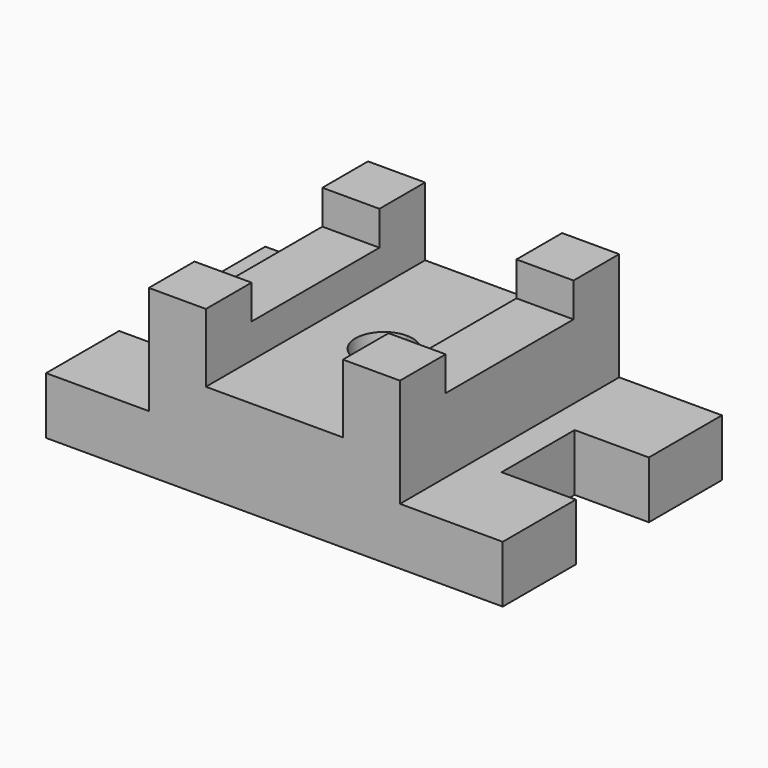
from build123d import *

# Parameters (mm, degrees)
F1_DEPTH = 31.75
F0_W     = 31.75
F0_H     = 31.75
F2_DEPTH = 92.075
F3_DEPTH = 53.975
F0_H_2   = 88.9
F4_DEPTH = 73.025
F5_DEPTH = 31.75


with BuildPart() as f1:
    # F0 (on Top) → F1 (new body)
    with BuildSketch(Plane.XY):
        Polygon((-69.85, 44.45), (-69.85, 76.2), (-127, 76.2), (-127, 25.4), (-85.725, 25.4), (-85.725, 0), (-85.725, -25.4), (-127, -25.4), (-127, -76.2), (-69.85, -76.2), (-69.85, -44.45), align=None)
        Polygon((127, 76.2), (69.85, 76.2), (69.85, 44.45), (69.85, -44.45), (69.85, -76.2), (127, -76.2), (127, -25.4), (85.725, -25.4), (85.725, 0), (85.725, 25.4), (127, 25.4), align=None)
    extrude(amount=F1_DEPTH)

    # F0 (on Top) → F2 (join)
    with BuildSketch(Plane.XY):
        with Locations((-53.975, 60.325)):
            Rectangle(F0_W, F0_H)
        with Locations((-53.975, -60.325)):
            Rectangle(F0_W, F0_H)
        with Locations((53.975, 60.325)):
            Rectangle(F0_W, F0_H)
        with Locations((53.975, -60.325)):
            Rectangle(F0_W, F0_H)
    extrude(amount=F2_DEPTH)

    # F0 (on Top) → F3 (join)
    with BuildSketch(Plane.XY):
        with BuildLine():
            ThreePointArc((0, 15.875), (11.22532, 11.22532), (15.875, 0))
            ThreePointArc((15.875, 0), (11.22532, -11.22532), (0, -15.875))
            Line((0, -15.875), (0, -76.2))
            Line((0, -76.2), (38.1, -76.2))
            Line((38.1, -76.2), (38.1, -44.45))
            Line((38.1, -44.45), (38.1, 44.45))
            Line((38.1, 44.45), (38.1, 76.2))
            Line((38.1, 76.2), (0, 76.2))
            Line((0, 76.2), (0, 15.875))
        make_face()
        with BuildLine():
            ThreePointArc((0, -15.875), (-15.875, 0), (0, 15.875))
            Line((0, 15.875), (0, 76.2))
            Line((0, 76.2), (-38.1, 76.2))
            Line((-38.1, 76.2), (-38.1, 44.45))
            Line((-38.1, 44.45), (-38.1, -44.45))
            Line((-38.1, -44.45), (-38.1, -76.2))
            Line((-38.1, -76.2), (0, -76.2))
            Line((0, -76.2), (0, -15.875))
        make_face()
    extrude(amount=F3_DEPTH)

    # F0 (on Top) → F4 (join)
    with BuildSketch(Plane.XY):
        with Locations((-53.975, 0)):
            Rectangle(F0_W, F0_H_2)
        with Locations((53.975, 0)):
            Rectangle(F0_W, F0_H_2)
    extrude(amount=F4_DEPTH)

    # F0 (on Top) → F5 (join)
    with BuildSketch(Plane.XY):
        Polygon((-69.85, 44.45), (-69.85, 76.2), (-127, 76.2), (-127, 25.4), (-85.725, 25.4), (-85.725, 0), (-85.725, -25.4), (-127, -25.4), (-127, -76.2), (-69.85, -76.2), (-69.85, -44.45), align=None)
        Polygon((127, 76.2), (69.85, 76.2), (69.85, 44.45), (69.85, -44.45), (69.85, -76.2), (127, -76.2), (127, -25.4), (85.725, -25.4), (85.725, 0), (85.725, 25.4), (127, 25.4), align=None)
    extrude(amount=F5_DEPTH)


solid = f1.part
